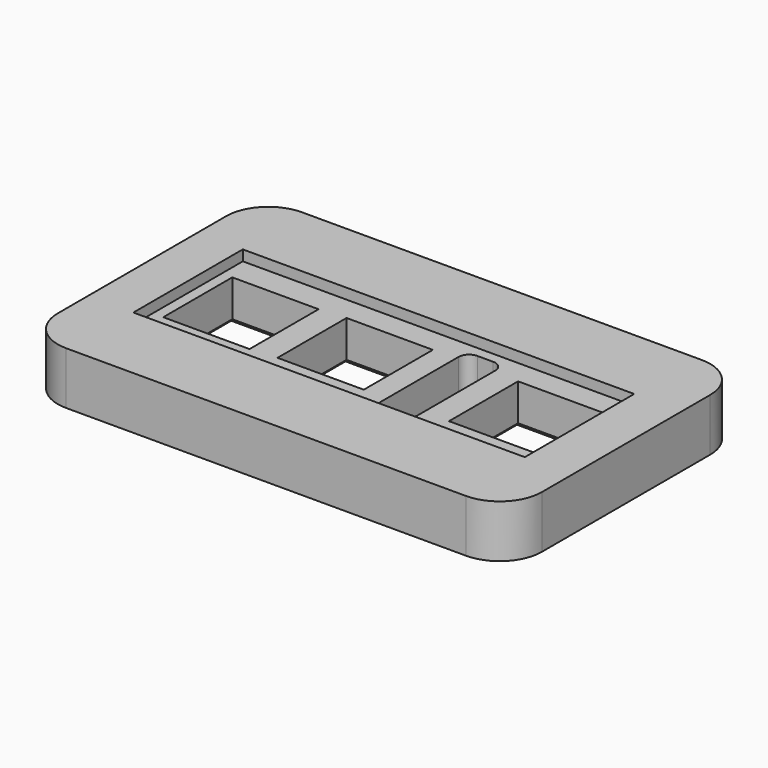
from build123d import *

# Parameters (mm, degrees)
F0_W     = 58.42
F0_H     = 35.56
F1_DEPTH = 6.35
F4_W     = 10.414
F4_H     = 10.414
F4_W_2   = 4.445
F4_H_2   = 14.224
F5_DEPTH = 25.4
F6_R     = 1.27
F3_W     = 47.244
F3_H     = 16.51
F7_DEPTH = 1.27
F8_R     = 5.08
F9_SIZE  = 0.635


with BuildPart() as f1:
    # F0 (on Top) → F1 (new body)
    with BuildSketch(Plane.XY):
        with Locations((-70.023337, -16.211975)):
            Rectangle(F0_W, F0_H)
    extrude(amount=F1_DEPTH)

    # F4 (on face) → F5 (cut)
    with BuildSketch(Plane.XY.offset(6.35)):
        with Locations((-87.295337, -16.211975)):
            Rectangle(F4_W, F4_H)
        with Locations((-73.706337, -15.957975)):
            Rectangle(F4_W, F4_H)
        with Locations((-53.005337, -15.957975)):
            Rectangle(F4_W, F4_H)
        with Locations((-63.482837, -16.211975)):
            Rectangle(F4_W_2, F4_H_2)
    extrude(amount=-F5_DEPTH, mode=Mode.SUBTRACT)

    # F6
    f6_edges = [f1.edges().sort_by_distance(p)[0] for p in [
        (-65.705337, -9.099975, 3.175),
        (-61.260337, -9.099975, 3.175),
        (-61.260337, -23.323975, 3.175),
        (-65.705337, -23.323975, 3.175),
    ]]
    fillet(f6_edges, radius=F6_R)

    # F3 (on face) → F7 (cut)
    with BuildSketch(Plane.XY.offset(6.35)):
        with Locations((-70.150337, -16.084975)):
            Rectangle(F3_W, F3_H)
    extrude(amount=-F7_DEPTH, mode=Mode.SUBTRACT)

    # F8
    f8_edges = [f1.edges().sort_by_distance(p)[0] for p in [
        (-40.813337, -33.991975, 3.175),
        (-40.813337, 1.568025, 3.175),
        (-99.233337, -33.991975, 3.175),
        (-99.233337, 1.568025, 3.175),
    ]]
    fillet(f8_edges, radius=F8_R)

    # F9
    f9_edges = [f1.edges().sort_by_distance(p)[0] for p in [
        (-87.295337, -21.418975, 0),
        (-87.295337, -11.004975, 0),
        (-82.088337, -16.211975, 0),
        (-92.502337, -16.211975, 0),
        (-73.706337, -21.164975, 0),
        (-78.913337, -15.957975, 0),
        (-73.706337, -10.750975, 0),
        (-68.499337, -15.957975, 0),
        (-65.705337, -16.211975, 0),
        (-58.212337, -15.957975, 0),
        (-53.005337, -21.164975, 0),
        (-47.798337, -15.957975, 0),
        (-53.005337, -10.750975, 0),
    ]]
    chamfer(f9_edges, length=F9_SIZE)


solid = f1.part
